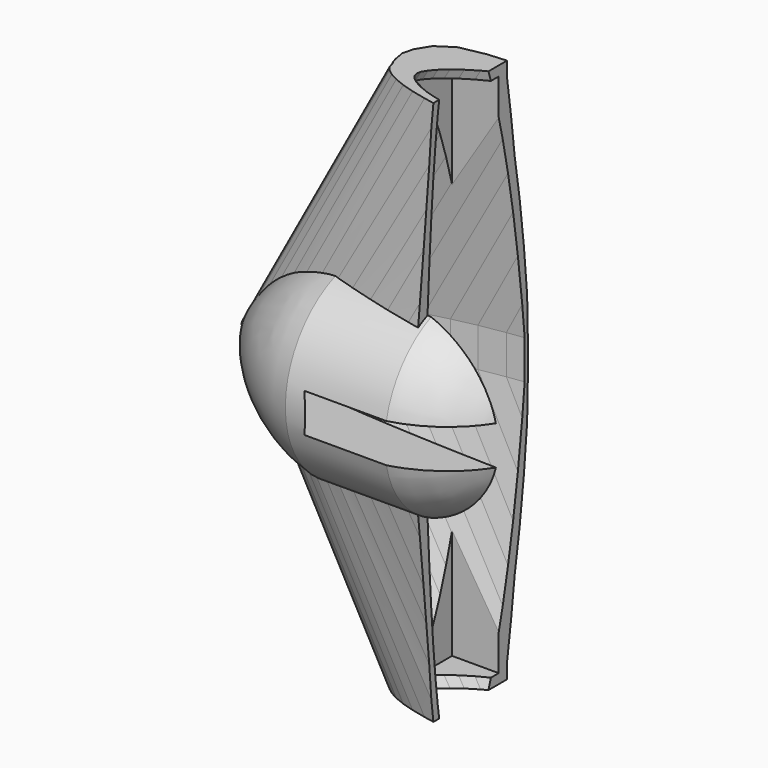
from build123d import *

# Parameters (mm, degrees)
SKETCH006_W      = 40
SKETCH006_H      = 135
PAD001_DEPTH     = 13
PAD_DEPTH        = 5
REVOLUTION_ANGLE = 180
BOX_W            = 300
BOX_H            = 100
BOX_DEPTH        = 140


with BuildPart() as pad001:
    # Sketch006 → Pad001 (new body)
    with BuildSketch(Plane.XZ):
        with Locations((58, 0)):
            Rectangle(SKETCH006_W, SKETCH006_H)
    extrude(amount=-PAD001_DEPTH)


with BuildPart() as fusoliera:
    # Sketch → Pad (new body, symmetric)
    with BuildSketch(Plane.XY):
        with BuildLine():
            Line((290, 0), (289.7129, 0.0174))
            Line((289.7129, 0.0174), (288.8574, 0.0696))
            Line((288.8574, 0.0696), (287.4306, 0.1769))
            Line((287.4306, 0.1769), (285.4441, 0.3509))
            Line((285.4441, 0.3509), (282.9037, 0.6003))
            Line((282.9037, 0.6003), (279.8181, 0.9251))
            Line((279.8181, 0.9251), (276.1989, 1.3224))
            Line((276.1989, 1.3224), (272.0635, 1.7893))
            Line((272.0635, 1.7893), (267.4264, 2.3229))
            Line((267.4264, 2.3229), (262.3079, 2.9261))
            Line((262.3079, 2.9261), (256.7254, 3.6076))
            Line((256.7254, 3.6076), (250.6992, 4.3587))
            Line((250.6992, 4.3587), (244.2583, 5.1852))
            Line((244.2583, 5.1852), (237.4259, 6.0784))
            Line((237.4259, 6.0784), (230.2281, 7.0383))
            Line((230.2281, 7.0383), (230.2281, 40.028069))
            Line((230.2281, 40.028069), (201.90651, 39.515951))
            ThreePointArc((172.217343, 14.637652), (187.660006, 26.363067), (201.90651, 39.515951))
            Line((172.217343, 14.637652), (163.1743, 16.2081))
            Line((163.1743, 16.2081), (154.106, 17.371))
            Line((154.106, 17.371), (145, 18.4817))
            Line((145, 18.4817), (135.8969, 19.5199))
            Line((135.8969, 19.5199), (126.8257, 20.4682))
            Line((126.8257, 20.4682), (117.8299, 21.3034))
            Line((117.8299, 21.3034), (108.9414, 22.0023))
            Line((108.9414, 22.0023), (100.1921, 22.5446))
            Line((100.1921, 22.5446), (91.6226, 22.9129))
            Line((91.6226, 22.9129), (83.2619, 23.0898))
            Line((83.2619, 23.0898), (75.1448, 23.0608))
            Line((75.1448, 23.0608), (67.3061, 22.8201))
            Line((67.3061, 22.8201), (59.7719, 22.3561))
            Line((59.7719, 22.3561), (52.5741, 21.6717))
            Line((52.5741, 21.6717), (45.7417, 20.7698))
            Line((45.7417, 20.7698), (39.3008, 19.662))
            Line((39.3008, 19.662), (33.2746, 18.3628))
            Line((33.2746, 18.3628), (27.6921, 16.8896))
            Line((27.6921, 16.8896), (22.5736, 15.2714))
            Line((22.5736, 15.2714), (17.9365, 13.5314))
            Line((17.9365, 13.5314), (13.8011, 11.7015))
            Line((13.8011, 11.7015), (10.1819, 9.8165))
            Line((10.1819, 9.8165), (7.0963, 7.9112))
            Line((7.0963, 7.9112), (4.5559, 6.0378))
            Line((4.5559, 6.0378), (2.5694, 4.263))
            Line((2.5694, 4.263), (1.1426, 2.6535))
            Line((1.1426, 2.6535), (0.2871, 1.2383))
            Line((0.2871, 1.2383), (0, 0))
            Line((0, 0), (0.2871, -1.131))
            Line((0.2871, -1.131), (1.1426, -2.2243))
            Line((1.1426, -2.2243), (2.5694, -3.3176))
            Line((2.5694, -3.3176), (4.5559, -4.3964))
            Line((4.5559, -4.3964), (7.0963, -5.4201))
            Line((38.675534, -31.593528), (7.0963, -5.4201))
            Line((38.675534, -31.593528), (232.520951, -31.593528))
            Line((232.520951, -31.593528), (244.2583, -4.8227))
            Line((244.2583, -4.8227), (250.6992, -4.1267))
            Line((250.6992, -4.1267), (256.7254, -3.4626))
            Line((256.7254, -3.4626), (262.3079, -2.842))
            Line((262.3079, -2.842), (267.4264, -2.2765))
            Line((267.4264, -2.2765), (272.0635, -1.7661))
            Line((272.0635, -1.7661), (276.1989, -1.3137))
            Line((276.1989, -1.3137), (279.8181, -0.9222))
            Line((279.8181, -0.9222), (282.9037, -0.5974))
            Line((282.9037, -0.5974), (285.4441, -0.3509))
            Line((285.4441, -0.3509), (287.4306, -0.1769))
            Line((287.4306, -0.1769), (288.8574, -0.0696))
            Line((288.8574, -0.0696), (289.7129, -0.0174))
            Line((289.7129, -0.0174), (290, 0))
        make_face()
    extrude(amount=PAD_DEPTH, both=True)


with BuildPart() as loft_body:
    # Sketch001 → Loft section 0
    with BuildSketch(Plane.XY):
        Polygon((290, 0), (289.7129, 0.0174), (288.8574, 0.0696), (287.4306, 0.1769), (285.4441, 0.3509), (282.9037, 0.6003), (279.8181, 0.9251), (276.1989, 1.3224), (272.0635, 1.7893), (267.4264, 2.3229), (262.3079, 2.9261), (256.7254, 3.6076), (250.6992, 4.3587), (244.2583, 5.1852), (237.4259, 6.0784), (230.2281, 7.0383), (222.6939, 8.0591), (214.8552, 9.135), (206.7381, 10.2573), (198.3774, 11.4173), (189.8079, 12.6034), (181.0615, 13.8098), (172.1701, 15.0162), (163.1743, 16.2081), (154.106, 17.371), (145, 18.4817), (135.8969, 19.5199), (126.8257, 20.4682), (117.8299, 21.3034), (108.9414, 22.0023), (100.1921, 22.5446), (91.6226, 22.9129), (83.2619, 23.0898), (75.1448, 23.0608), (67.3061, 22.8201), (59.7719, 22.3561), (52.5741, 21.6717), (45.7417, 20.7698), (39.3008, 19.662), (33.2746, 18.3628), (27.6921, 16.8896), (22.5736, 15.2714), (17.9365, 13.5314), (13.8011, 11.7015), (10.1819, 9.8165), (7.0963, 7.9112), (4.5559, 6.0378), (2.5694, 4.263), (1.1426, 2.6535), (0.2871, 1.2383), (0, 0), (0.2871, -1.131), (1.1426, -2.2243), (2.5694, -3.3176), (4.5559, -4.3964), (7.0963, -5.4201), (10.1819, -6.3568), (13.8011, -7.1949), (17.9365, -7.9344), (22.5736, -8.5811), (27.6921, -9.1437), (33.2746, -9.6367), (39.3008, -10.063), (45.7417, -10.4371), (52.5741, -10.7619), (59.7719, -11.0461), (67.3061, -11.2926), (75.1448, -11.5043), (83.2619, -11.6812), (91.6226, -11.8175), (100.1921, -11.9161), (108.9414, -11.9683), (117.8299, -11.9712), (126.8257, -11.9161), (135.8969, -11.8001), (145, -11.6174), (154.106, -11.3651), (163.1743, -11.0374), (172.1701, -10.6401), (181.0615, -10.1732), (189.8079, -9.6396), (198.3774, -9.0451), (206.7381, -8.4013), (214.8552, -7.7169), (222.6939, -7.0064), (230.2281, -6.2756), (237.4259, -5.5448), (244.2583, -4.8227), (250.6992, -4.1267), (256.7254, -3.4626), (262.3079, -2.842), (267.4264, -2.2765), (272.0635, -1.7661), (276.1989, -1.3137), (279.8181, -0.9222), (282.9037, -0.5974), (285.4441, -0.3509), (287.4306, -0.1769), (288.8574, -0.0696), (289.7129, -0.0174), align=None)
    # Sketch002 → Loft section 1
    with BuildSketch(Plane(origin=(260, 0, 430), x_dir=(1, 0, 0), z_dir=(0, 0, 1))):
        Polygon((120, 0), (119.8812, 0.0072), (119.5272, 0.0288), (118.9368, 0.0732), (118.1148, 0.1452), (117.0636, 0.2484), (115.7868, 0.3828), (114.2892, 0.5472), (112.578, 0.7404), (110.6592, 0.9612), (108.5412, 1.2108), (106.2312, 1.4928), (103.7376, 1.8036), (101.0724, 2.1456), (98.2452, 2.5152), (95.2668, 2.9124), (92.1492, 3.3348), (88.9056, 3.78), (85.5468, 4.2444), (82.0872, 4.7244), (78.5412, 5.2152), (74.922, 5.7144), (71.2428, 6.2136), (67.5204, 6.7068), (63.768, 7.188), (60, 7.6476), (56.2332, 8.0772), (52.4796, 8.4696), (48.7572, 8.8152), (45.0792, 9.1044), (41.4588, 9.3288), (37.9128, 9.4812), (34.4532, 9.5544), (31.0944, 9.5424), (27.8508, 9.4428), (24.7332, 9.2508), (21.7548, 8.9676), (18.9276, 8.5944), (16.2624, 8.136), (13.7688, 7.5984), (11.4588, 6.9888), (9.3408, 6.3192), (7.422, 5.5992), (5.7108, 4.842), (4.2132, 4.062), (2.9364, 3.2736), (1.8852, 2.4984), (1.0632, 1.764), (0.4728, 1.098), (0.1188, 0.5124), (0, 0), (0.1188, -0.468), (0.4728, -0.9204), (1.0632, -1.3728), (1.8852, -1.8192), (2.9364, -2.2428), (4.2132, -2.6304), (5.7108, -2.9772), (7.422, -3.2832), (9.3408, -3.5508), (11.4588, -3.7836), (13.7688, -3.9876), (16.2624, -4.164), (18.9276, -4.3188), (21.7548, -4.4532), (24.7332, -4.5708), (27.8508, -4.6728), (31.0944, -4.7604), (34.4532, -4.8336), (37.9128, -4.89), (41.4588, -4.9308), (45.0792, -4.9524), (48.7572, -4.9536), (52.4796, -4.9308), (56.2332, -4.8828), (60, -4.8072), (63.768, -4.7028), (67.5204, -4.5672), (71.2428, -4.4028), (74.922, -4.2096), (78.5412, -3.9888), (82.0872, -3.7428), (85.5468, -3.4764), (88.9056, -3.1932), (92.1492, -2.8992), (95.2668, -2.5968), (98.2452, -2.2944), (101.0724, -1.9956), (103.7376, -1.7076), (106.2312, -1.4328), (108.5412, -1.176), (110.6592, -0.942), (112.578, -0.7308), (114.2892, -0.5436), (115.7868, -0.3816), (117.0636, -0.2472), (118.1148, -0.1452), (118.9368, -0.0732), (119.5272, -0.0288), (119.8812, -0.0072), align=None)
    loft()


with BuildPart() as loft_body_1:
    # Loft placement: moved
    add(loft_body.part.moved(Location((0, 0, 5))))


with BuildPart() as obj1:
    # Part__Mirroring: instance of Loft body
    add(loft_body_1.part.mirror(Plane(origin=(170, 5.5593, 0), x_dir=(0, 1, 0), z_dir=(0, 0, 1))))

    # Fusion001: union Loft body
    add(loft_body_1.part)

    # Fusion002: union fusoliera
    add(fusoliera.part)

    # Fusion004: union Pad001
    add(pad001.part)


with BuildPart() as obj2:
    # Sketch005 → Revolution (revolve)
    with BuildSketch(Plane.XZ):
        with BuildLine():
            ThreePointArc((25.407095, 24.798698), (7.644088, 15.826593), (-4.419994, 0))
            Line((-4.419994, 0), (73.884384, 0))
            ThreePointArc((73.884384, 0), (66.028237, 15.73582), (50.955104, 24.798698))
            Line((25.407095, 24.798698), (50.955104, 24.798698))
        make_face()
    revolve(axis=Axis((0, 0, 0), (1, 0, 0)), revolution_arc=REVOLUTION_ANGLE)


with BuildPart() as cubo:
    # Box → Box (new body)
    with BuildSketch(Plane(origin=(50, -50, -70), x_dir=(1, 0, 0), z_dir=(0, 0, 1))):
        with Locations((150, 50)):
            Rectangle(BOX_W, BOX_H)
    extrude(amount=BOX_DEPTH)


with BuildPart() as loft001:
    # Sketch003 → Loft001 section 0
    with BuildSketch(Plane(origin=(-5, 0, 0), x_dir=(1, 0, 0), z_dir=(0, 0, 1))):
        Polygon((300, 0), (299.703, 0.018), (298.818, 0.072), (297.342, 0.183), (295.287, 0.363), (292.659, 0.621), (289.467, 0.957), (285.723, 1.368), (281.445, 1.851), (276.648, 2.403), (271.353, 3.027), (265.578, 3.732), (259.344, 4.509), (252.681, 5.364), (245.613, 6.288), (238.167, 7.281), (230.373, 8.337), (222.264, 9.45), (213.867, 10.611), (205.218, 11.811), (196.353, 13.038), (187.305, 14.286), (178.107, 15.534), (168.801, 16.767), (159.42, 17.97), (150, 19.119), (140.583, 20.193), (131.199, 21.174), (121.893, 22.038), (112.698, 22.761), (103.647, 23.322), (94.782, 23.703), (86.133, 23.886), (77.736, 23.856), (69.627, 23.607), (61.833, 23.127), (54.387, 22.419), (47.122498, 22.28804), (40.386608, 21.29422), (33.761143, 19.637854), (28.019072, 17.871065), (23.218418, 16.053862), (18.61986, 14.152198), (14.277, 12.105), (10.533, 10.155), (7.341, 8.184), (4.713, 6.246), (2.658, 4.41), (1.182, 2.745), (0.297, 1.281), (0, 0), (0.297, -1.17), (1.182, -2.301), (2.658, -3.432), (4.713, -4.548), (7.341, -5.607), (10.368199, -6.953395), (14.311341, -8.103964), (18.149906, -9.159569), (22.843533, -10.31214), (28.600012, -11.483979), (34.357857, -12.539584), (40.595524, -13.499225), (45.681622, -14.266937), (53.742603, -15.322543), (60.843948, -15.994291), (68.137215, -15.802364), (77.736, -11.901), (86.133, -12.084), (94.782, -12.225), (103.647, -12.327), (112.698, -12.381), (121.893, -12.384), (131.199, -12.327), (140.583, -12.207), (150, -12.018), (159.42, -11.757), (168.801, -11.418), (178.107, -11.007), (187.305, -10.524), (196.353, -9.972), (205.218, -9.357), (213.867, -8.691), (222.264, -7.983), (230.373, -7.248), (238.167, -6.492), (245.613, -5.736), (252.681, -4.989), (259.344, -4.269), (265.578, -3.582), (271.353, -2.94), (276.648, -2.355), (281.445, -1.827), (285.723, -1.359), (289.467, -0.954), (292.659, -0.618), (295.287, -0.363), (297.342, -0.183), (298.818, -0.072), (299.703, -0.018), align=None)
    # Sketch004 → Loft001 section 1
    with BuildSketch(Plane(origin=(33, 0, 70), x_dir=(1, 0, 0), z_dir=(0, 0, 1))):
        Polygon((300, 0), (299.703, 0.018), (298.818, 0.072), (297.342, 0.183), (295.287, 0.363), (292.659, 0.621), (289.467, 0.957), (285.723, 1.368), (281.445, 1.851), (276.648, 2.403), (271.353, 3.027), (265.578, 3.732), (259.344, 4.509), (252.681, 5.364), (245.613, 6.288), (238.167, 7.281), (230.373, 8.337), (222.264, 9.45), (213.867, 10.611), (205.218, 11.811), (196.353, 13.038), (187.305, 14.286), (178.107, 15.534), (168.801, 16.767), (159.42, 17.97), (150, 19.119), (140.583, 20.193), (131.199, 21.174), (121.893, 22.038), (112.698, 22.761), (103.647, 23.322), (94.782, 23.703), (86.133, 23.886), (77.736, 23.856), (69.627, 23.607), (61.833, 23.127), (54.387, 22.419), (47.319, 21.486), (42.042729, 20.732476), (35.582152, 19.722852), (30.045488, 18.278031), (24.43066, 17.208294), (19.383362, 15.831762), (12.165092, 15.299994), (5.56757, 13.994234), (1.375393, 11.245266), (-0.703021, 7.845343), (-1.439052, 5.094563), (-0.92252, 2.222917), (-0.584923, 1.097586), (0, 0), (0.297, -1.17), (1.182, -2.301), (2.658, -3.432), (4.713, -4.548), (7.341, -5.607), (10.533, -6.576), (14.277, -7.443), (20.041225, -8.60954), (24.743465, -9.089361), (30.117455, -9.665145), (34.422, -9.969), (40.656, -10.41), (47.319, -10.797), (54.387, -11.133), (61.833, -11.427), (69.627, -11.682), (77.736, -11.901), (86.133, -12.084), (94.782, -12.225), (103.647, -12.327), (112.698, -12.381), (121.893, -12.384), (131.199, -12.327), (140.583, -12.207), (150, -12.018), (159.42, -11.757), (168.801, -11.418), (178.107, -11.007), (187.305, -10.524), (196.353, -9.972), (205.218, -9.357), (213.867, -8.691), (222.264, -7.983), (230.373, -7.248), (238.167, -6.492), (245.613, -5.736), (252.681, -4.989), (259.344, -4.269), (265.578, -3.582), (271.353, -2.94), (276.648, -2.355), (281.445, -1.827), (285.723, -1.359), (289.467, -0.954), (292.659, -0.618), (295.287, -0.363), (297.342, -0.183), (298.818, -0.072), (299.703, -0.018), align=None)
    loft()


with BuildPart() as cut001:
    # Part__Mirroring001: instance of Loft001
    add(loft001.part.mirror(Plane(origin=(160, 5.751, 0), x_dir=(0, 1, 0), z_dir=(0, 0, 1))))

    # Fusion: union Loft001
    add(loft001.part)

    # Cut: cut Cubo
    add(cubo.part, mode=Mode.SUBTRACT)

    # Fusion003: union obj2
    add(obj2.part)

    # Cut001: cut obj1
    add(obj1.part, mode=Mode.SUBTRACT)


solid = cut001.part
